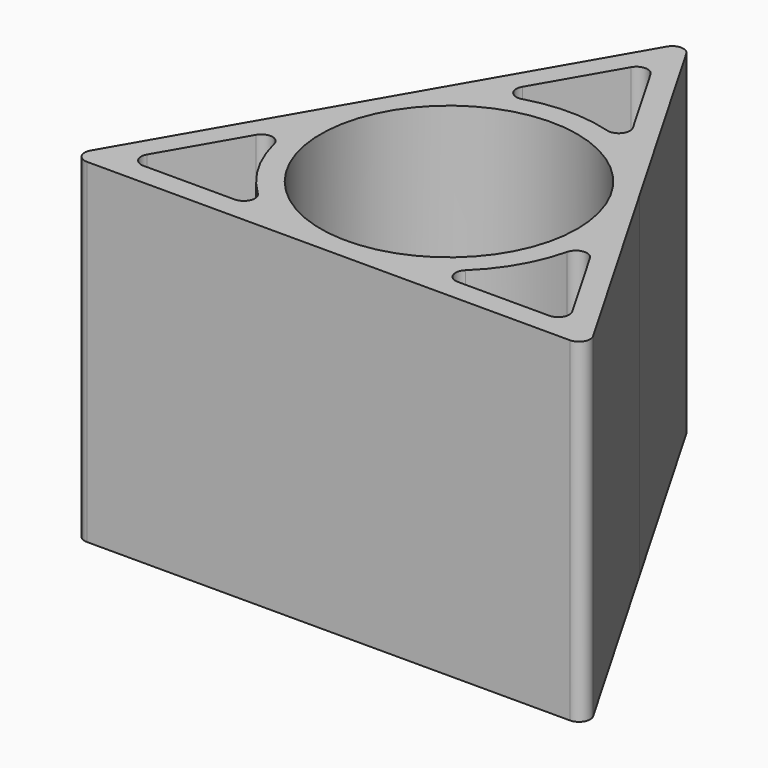
from build123d import *

# Parameters (mm, degrees)
F0_R     = 11.5
F1_DEPTH = 30


with BuildPart() as f1:
    # F0 (on Top) → F1 (new body)
    with BuildSketch(Plane.XY):
        with BuildLine():
            Line((11.691343, 6.75), (0.866025, 25.5))
            ThreePointArc((0.866025, 25.5), (0, 26), (-0.866025, 25.5))
            Line((-0.866025, 25.5), (-22.51666, -12))
            ThreePointArc((-22.51666, -12), (-22.51666, -13), (-21.650635, -13.5))
            Line((-21.650635, -13.5), (21.650635, -13.5))
            ThreePointArc((21.650635, -13.5), (22.51666, -13), (22.51666, -12))
            Line((22.51666, -12), (11.691343, 6.75))
        make_face()
        with BuildLine():
            ThreePointArc((-18.186533, -11.5), (-19.052559, -11), (-19.052559, -10))
            Line((-19.052559, -10), (-14.959292, -2.910254))
            ThreePointArc((-14.959292, -2.910254), (-13.950662, -2.420474), (-13.121317, -3.175064))
            ThreePointArc((-13.121317, -3.175064), (-11.691343, -6.75), (-9.310345, -9.775862))
            ThreePointArc((-9.310345, -9.775862), (-9.071523, -10.871391), (-10, -11.5))
            Line((-10, -11.5), (-18.186533, -11.5))
        make_face(mode=Mode.SUBTRACT)
        Circle(F0_R, mode=Mode.SUBTRACT)
        with BuildLine():
            ThreePointArc((19.052559, -10), (19.052559, -11), (18.186533, -11.5))
            Line((18.186533, -11.5), (10, -11.5))
            ThreePointArc((10, -11.5), (9.071523, -10.871391), (9.310345, -9.775862))
            ThreePointArc((9.310345, -9.775862), (11.691343, -6.75), (13.121317, -3.175064))
            ThreePointArc((13.121317, -3.175064), (13.950662, -2.420474), (14.959292, -2.910254))
            Line((14.959292, -2.910254), (19.052559, -10))
        make_face(mode=Mode.SUBTRACT)
        with BuildLine():
            ThreePointArc((-0.866025, 21.5), (0, 22), (0.866025, 21.5))
            Line((0.866025, 21.5), (4.959292, 14.410254))
            ThreePointArc((4.959292, 14.410254), (4.879139, 13.291865), (3.810972, 12.950926))
            ThreePointArc((3.810972, 12.950926), (0, 13.5), (-3.810972, 12.950926))
            ThreePointArc((-3.810972, 12.950926), (-4.879139, 13.291865), (-4.959292, 14.410254))
            Line((-4.959292, 14.410254), (-0.866025, 21.5))
        make_face(mode=Mode.SUBTRACT)
    extrude(amount=F1_DEPTH)


solid = f1.part
